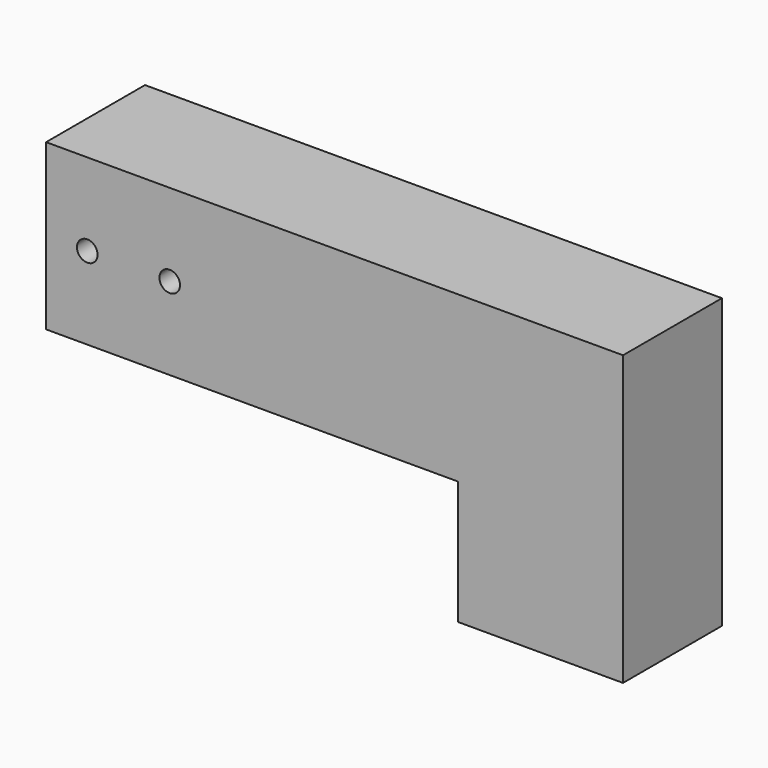
from build123d import *

# Parameters (mm, degrees)
F0_W     = 177.8
F0_H     = 38.1
F1_DEPTH = 88.9
F2_W     = 127
F2_H     = 38.1
F3_DEPTH = 38.101
F5_D     = 6.35


with BuildPart() as f1:
    # F0 (on Top) → F1 (new body)
    with BuildSketch(Plane.XY):
        with Locations((88.9, -19.05)):
            Rectangle(F0_W, F0_H)
    extrude(amount=F1_DEPTH)

    # F2 (on face) → F3 (cut, through all)
    with BuildSketch(Plane.XZ.offset(38.1)):
        with Locations((63.5, 19.05)):
            Rectangle(F2_W, F2_H)
    extrude(amount=-F3_DEPTH, mode=Mode.SUBTRACT)

    # F5 (through all)
    with Locations(Plane.XZ.offset(38.1)):
        with Locations((38.1, 63.5), (12.7, 63.5)):
            Hole(F5_D / 2)


solid = f1.part
